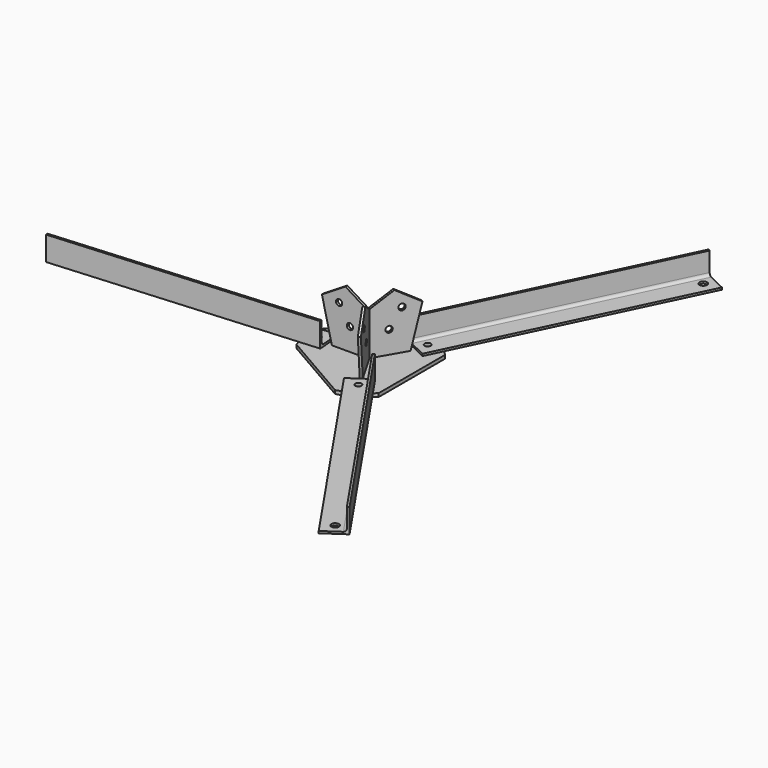
from build123d import *

# Parameters (mm, degrees)
F1_DEPTH  = 10
F2_R      = 9
F3_DEPTH  = 25
F12_D     = 18
F12_DEPTH = 22
F12_TIP   = 5.4077455712
F13_D     = 22
F13_DEPTH = 22
F13_TIP   = 6.6094668093
F14_COUNT = 3
F15_R     = 9
F16_DEPTH = 3.5
F17_COUNT = 3
F19_DEPTH = 125


with BuildPart() as f1:
    # F0 (on Top) → F1 (new body)
    with BuildSketch(Plane.XY):
        with BuildLine():
            Line((-167.7050983125, -50), (40.551278967, -170.2368754828))
            ThreePointArc((40.551278967, -170.2368754828), (87.5, -151.5544456623), (127.1538193455, -120.2368754828))
            Line((127.1538193455, -120.2368754828), (127.1538193455, 120.2368754828))
            ThreePointArc((127.1538193455, 120.2368754828), (87.5, 151.5544456623), (40.551278967, 170.2368754828))
            Line((40.551278967, 170.2368754828), (-167.7050983125, 50))
            ThreePointArc((-167.7050983125, 50), (-175, 0), (-167.7050983125, -50))
        make_face()
    extrude(amount=F1_DEPTH)

    # F2 (on face) → F3 (cut)
    with BuildSketch(Plane.XY.offset(10)):
        with Locations((-145, 0)):
            Circle(F2_R)
        with BuildLine():
            ThreePointArc((81.5, 125.5736835487), (68, 133.3679121828), (68, 117.7794549147))
            ThreePointArc((68, 117.7794549147), (77, 117.7794549147), (81.5, 125.5736835487))
        make_face()
        with BuildLine():
            ThreePointArc((81.5, -125.5736835487), (77, -117.7794549147), (68, -117.7794549147))
            ThreePointArc((68, -117.7794549147), (68, -133.3679121828), (81.5, -125.5736835487))
        make_face()
    extrude(amount=-F3_DEPTH, mode=Mode.SUBTRACT)



with BuildPart() as f10:
    # F10: sweep along a path in F7
    with BuildLine(Plane.XY.offset(10)) as f10_path:
        Line((-115.0840448901, 2.2440209137), (-864.8775997951, -53.9986232539))
    # F9 (on line) → F10 (sweep)
    with BuildSketch(Plane(origin=(-114.272748968, -8.5716948568, 0), x_dir=(0.0748006971, -0.9971985037, 0), z_dir=(-0.9971985037, -0.0748006971, 0))):
        with BuildLine():
            Line((-45.846101083, 10), (24.153898917, 10))
            Line((24.153898917, 10), (24.153898917, 80))
            Line((24.153898917, 80), (18.153898917, 80))
            Line((18.153898917, 80), (18.153898917, 24))
            ThreePointArc((18.153898917, 24), (15.8107531665, 18.3431457505), (10.153898917, 16))
            Line((10.153898917, 16), (-45.846101083, 16))
            Line((-45.846101083, 16), (-45.846101083, 10))
        make_face()
    sweep(path=f10_path.line)

    # F12
    with Locations(Plane.XY.offset(16)):
        with Locations((-145, 0)):
            Hole(F12_D / 2, depth=F12_DEPTH)
            with Locations((0, 0, -(F12_DEPTH + F12_TIP / 2))):  # 118° drill point
                Cone(0, F12_D / 2, F12_TIP, mode=Mode.SUBTRACT)

    # F13
    with Locations(Plane(origin=(0, 0, 10), x_dir=(1, 0, 0), z_dir=(0, 0, -1))):
        with Locations((-834.9616446851, 51.7546023402)):
            Hole(F13_D / 2, depth=F13_DEPTH)
            with Locations((0, 0, -(F13_DEPTH + F13_TIP / 2))):  # 118° drill point
                Cone(0, F13_D / 2, F13_TIP, mode=Mode.SUBTRACT)


with BuildPart() as f14_1:
    # F14: instance of F10
    add(f10.part.rotate(Axis((0, 0, 10), (0, 0, 1)), 1 * 360 / F14_COUNT))


with BuildPart() as f14_2:
    # F14: instance of F10
    add(f10.part.rotate(Axis((0, 0, 10), (0, 0, 1)), 2 * 360 / F14_COUNT))


with BuildPart() as f16:
    # F15 (on Front) → F16 (new body, symmetric)
    with BuildSketch(Plane.XZ):
        Polygon((-102.0207259422, 10), (-2.0207259422, 10), (-2.0207259422, 135), (-62.7408061591, 172.5245039889), (-130.9099109319, 130.65598175), align=None)
        with Locations((-49.7232710268, 74.9)):
            Circle(F15_R, mode=Mode.SUBTRACT)
        with Locations((-81.1246627059, 126.0268285796)):
            Circle(F15_R, mode=Mode.SUBTRACT)
    extrude(amount=F16_DEPTH, both=True)


with BuildPart() as f17_1:
    # F17: instance of F16
    add(f16.part.rotate(Axis((0, 0, 10), (0, 0, 1)), 1 * 360 / F17_COUNT))


with BuildPart() as f17_2:
    # F17: instance of F16
    add(f16.part.rotate(Axis((0, 0, 10), (0, 0, 1)), 2 * 360 / F17_COUNT))


with BuildPart() as f1_1:
    add(f1.part)

    add(f16.part)  # F19 merges F16

    add(f17_1.part)  # F19 merges F17_1

    add(f17_2.part)  # F19 merges F17_2
    # F18 (on face) → F19 (join, through all)
    with BuildSketch(Plane.XY.offset(10)):
        Polygon((-2.0207259422, -3.5), (4.0414518843, 0), (-2.0207259422, 3.5), align=None)
    extrude(amount=F19_DEPTH)


solid = Compound([f10.part, f14_1.part, f14_2.part, f1_1.part])
